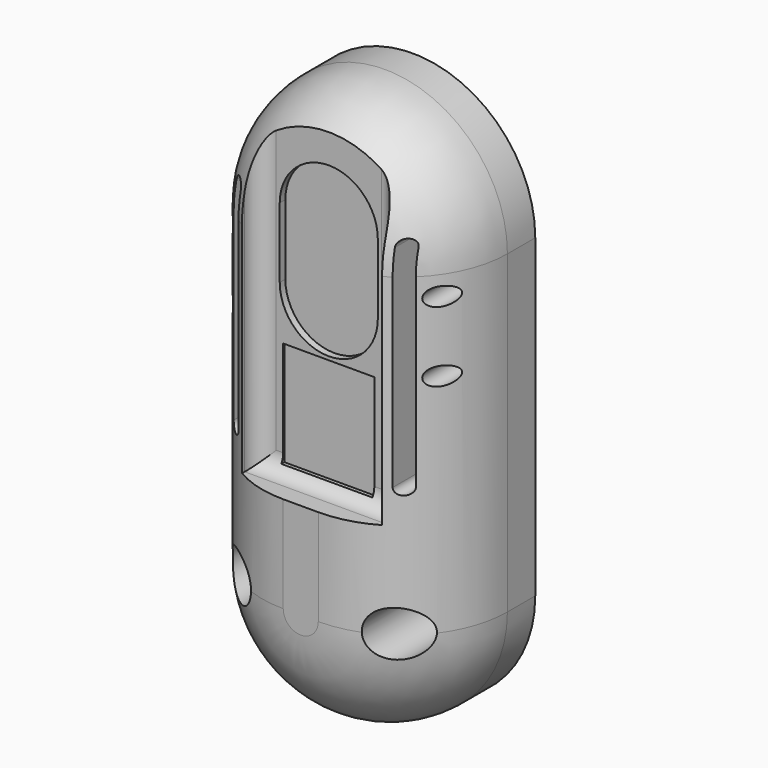
from build123d import *

# Parameters (mm, degrees)
F0_W           = 50.8
F0_H           = 101.6
F1_DEPTH       = 12.7
F3_W           = 44.45
F3_H           = 57.15
F4_DEPTH       = 25.4
F5_R           = 19.05
F7_DEPTH       = 6.35
F8_R           = 4.2333291
F9_DEPTH       = 25.4
F11_DEPTH      = 12.7
F13_R          = 3.175
F14_R          = 168.3344701058
F15_DEPTH      = 76.2
F18_W          = 18.3818363585
F18_H          = 117.3466779292
F19_DEPTH      = 38.1
F20_R          = 1.651
F21_DEPTH      = 25.4
F22_W          = 17.78
F22_H          = 12.7
F23_DEPTH      = 1.27
F24_W          = 16.51
F24_H          = 19.05
F25_DEPTH      = 0.254
F25_DEPTH_BACK = 25.4


with BuildPart() as f1:
    # F0 (on Front) → F1 (new body)
    with BuildSketch(Plane.XZ):
        Rectangle(F0_W, F0_H)
    extrude(amount=F1_DEPTH)

    # F3 (on offset) → F4 (join)
    with BuildSketch(Plane.XZ.offset(12.7)):
        Rectangle(F3_W, F3_H)
        with BuildLine():
            Line((-22.225, 28.575), (22.225, 28.575))
            ThreePointArc((22.225, 28.575), (0, 50.8), (-22.225, 28.575))
        make_face()
        with BuildLine():
            ThreePointArc((-22.225, -28.575), (0, -50.8), (22.225, -28.575))
            Line((22.225, -28.575), (-22.225, -28.575))
        make_face()
    extrude(amount=F4_DEPTH)

    # F5
    f5_edges = [f1.edges().sort_by_distance(p)[0] for p in [
        (22.225, -38.1, 0),
    ]]
    fillet(f5_edges, radius=F5_R)

    # F6 (on face) → F7 (cut)
    with BuildSketch(Plane.XZ.offset(38.1)):
        Polygon((12.7, 7.150224492), (12.7, 103.5848444817), (-12.7, 103.5848444817), (-12.7, 7.150224492), (-12.7, -11.1108329147), (12.7, -11.1108329147), align=None)
    extrude(amount=-F7_DEPTH, mode=Mode.SUBTRACT)

    # F8 (on face) → F9 (cut)
    with BuildSketch(Plane.XZ.offset(38.1)):
        with Locations((-14.2705114558, -28.445886448)):
            Circle(F8_R)
        with Locations((14.2705114558, -28.445886448)):
            Circle(F8_R)
    extrude(amount=-F9_DEPTH, mode=Mode.SUBTRACT)

    # F10 (on face) → F11 (cut)
    with BuildSketch(Plane.XZ.offset(38.1)):
        with BuildLine():
            ThreePointArc((-13.97, 33.0797557599), (-15.24, 34.3497557599), (-16.51, 33.0797557599))
            Line((-16.51, 33.0797557599), (-16.51, -5.0202442401))
            ThreePointArc((-16.51, -5.0202442401), (-15.24, -6.2902442401), (-13.97, -5.0202442401))
            Line((-13.97, -5.0202442401), (-13.97, 33.0797557599))
        make_face()
        with BuildLine():
            Line((16.51, -5.0202442401), (16.51, 33.0797557599))
            ThreePointArc((16.51, 33.0797557599), (15.24, 34.3497557599), (13.97, 33.0797557599))
            Line((13.97, 33.0797557599), (13.97, -5.0202442401))
            ThreePointArc((13.97, -5.0202442401), (15.24, -6.2902442401), (16.51, -5.0202442401))
        make_face()
    extrude(amount=-F11_DEPTH, mode=Mode.SUBTRACT)

    # F13
    f13_edges = [f1.edges().sort_by_distance(p)[0] for p in [
        (12.7, -31.75, 14.660131),
        (-12.7, -31.75, 14.660131),
        (0, -31.75, -11.110833),
    ]]
    fillet(f13_edges, radius=F13_R)

    # F14 (on Top) → F15 (cut, symmetric)
    with BuildSketch(Plane.XY):
        with Locations((-0.2912944183, 165.5505603926)):
            Circle(F14_R)
    extrude(amount=F15_DEPTH, both=True, mode=Mode.SUBTRACT)


with BuildPart() as f16_1:
    # F16: copy of F1
    add(f1.part)


with BuildPart() as f1_1:
    add(f1.part)

    # F18 (on Right) → F19 (cut, symmetric)
    with BuildSketch(Plane.YZ):
        with Locations((-3.5482409876, -4.3996106833)):
            Rectangle(F18_W, F18_H)
    extrude(amount=F19_DEPTH, both=True, mode=Mode.SUBTRACT)

    # F20 (on offset) → F21 (cut)
    with BuildSketch(Plane.XZ.offset(12.7)):
        with Locations((-18.796, 25.0819418579)):
            Circle(F20_R)
        with Locations((-18.796, 12.3819418579)):
            Circle(F20_R)
        with Locations((18.796, 25.0819418579)):
            Circle(F20_R)
        with Locations((18.796, 12.3819418579)):
            Circle(F20_R)
    extrude(amount=F21_DEPTH, mode=Mode.SUBTRACT)

    # F22 (on face) → F23 (cut)
    with BuildSketch(Plane.XZ.offset(31.75)):
        with Locations((0, 25.4)):
            Rectangle(F22_W, F22_H)
        with BuildLine():
            Line((-8.89, 31.75), (8.89, 31.75))
            ThreePointArc((8.89, 31.75), (0, 40.64), (-8.89, 31.75))
        make_face()
        with BuildLine():
            ThreePointArc((-8.89, 19.05), (0, 10.16), (8.89, 19.05))
            Line((8.89, 19.05), (-8.89, 19.05))
        make_face()
    extrude(amount=-F23_DEPTH, mode=Mode.SUBTRACT)

    # F24 (on face) → F25 (cut, two sides)
    with BuildSketch(Plane.XZ.offset(31.75)) as f25_sk:
        Rectangle(F24_W, F24_H)
    extrude(amount=-F25_DEPTH, mode=Mode.SUBTRACT)
    extrude(f25_sk.sketch, amount=F25_DEPTH_BACK, mode=Mode.SUBTRACT)


solid = f1_1.part
